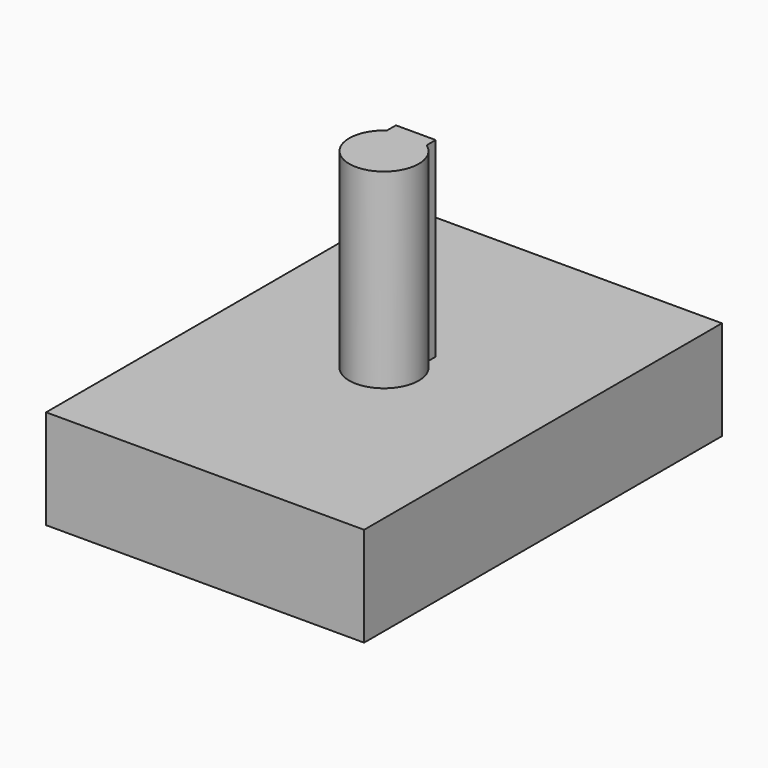
from build123d import *

# Parameters (mm, degrees)
F0_W     = 16
F0_H     = 5
F1_DEPTH = 22.5
F3_DEPTH = 9.6


with BuildPart() as f1:
    # F0 (on Front) → F1 (new body)
    with BuildSketch(Plane.XZ):
        with Locations((0, 12.8)):
            Rectangle(F0_W, F0_H)
    extrude(amount=F1_DEPTH)

    # F2 (on face) → F3 (join)
    with BuildSketch(Plane.XY.offset(15.3)):
        with BuildLine():
            Line((-1, -9.25), (-1, -9.813859))
            ThreePointArc((-1, -9.813859), (0, -13), (1, -9.813859))
            Line((1, -9.813859), (1, -9.25))
            Line((1, -9.25), (-1, -9.25))
        make_face()
    extrude(amount=F3_DEPTH)


solid = f1.part
